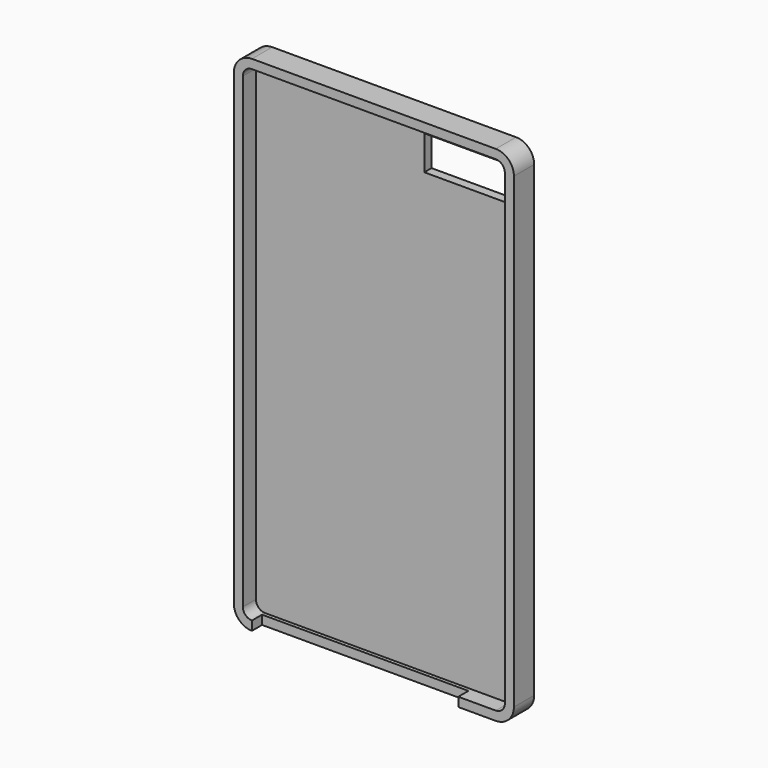
from build123d import *

# Parameters (mm, degrees)
F0_W     = 78.493316
F0_H     = 141.122394
F1_DEPTH = 7.1
F2_R     = 5.08
F3_T     = -2.54
F4_W     = 26.213542
F4_H     = 9.618692
F5_DEPTH = 12.7
F6_W     = 53.554615
F6_H     = 3.55
F6_W_2   = 4.265513
F7_DEPTH = 12.7


with BuildPart() as f1:
    # F0 (on Front) → F1 (new body)
    with BuildSketch(Plane.XZ):
        Rectangle(F0_W, F0_H)
    extrude(amount=F1_DEPTH)

    # F2
    f2_edges = [f1.edges().sort_by_distance(p)[0] for p in [
        (-39.246658, -3.55, 70.561197),
        (-39.246658, -3.55, -70.561197),
        (39.246658, -3.55, -70.561197),
        (39.246658, -3.55, 70.561197),
    ]]
    fillet(f2_edges, radius=F2_R)

    # F3
    f3_openings = [f1.faces().sort_by_distance(p)[0] for p in [
        (0, -7.1, 0),
    ]]
    offset(amount=F3_T, openings=f3_openings)

    # F4 (on face) → F5 (cut, symmetric)
    with BuildSketch(Plane.XZ.offset(2.54)):
        with Locations((23.599887, 60.043935)):
            Rectangle(F4_W, F4_H)
    extrude(amount=F5_DEPTH, both=True, mode=Mode.SUBTRACT)

    # F6 (on face) → F7 (cut, symmetric)
    with BuildSketch(Plane(origin=(0, 0, -70.561197), x_dir=(1, 0, 0), z_dir=(0, 0, -1))):
        with Locations((-7.38935, 5.325)):
            Rectangle(F6_W, F6_H)
        with Locations((21.520713, 5.325)):
            Rectangle(F6_W_2, F6_H)
    extrude(amount=F7_DEPTH, both=True, mode=Mode.SUBTRACT)


solid = f1.part
